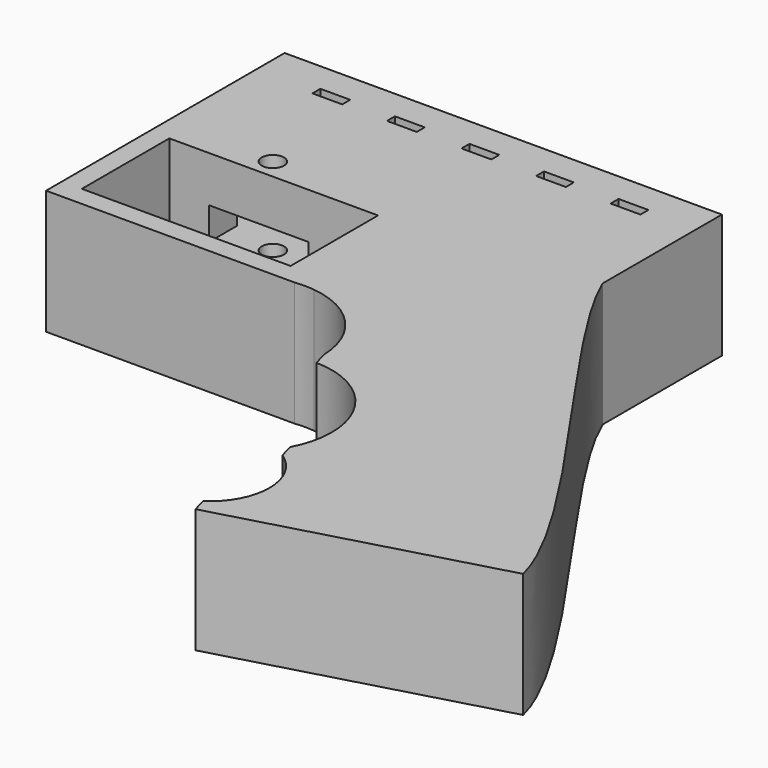
from build123d import *

# Parameters (mm, degrees)
F0_W     = 42
F0_H     = 22
F0_R     = 2.25
F0_W_2   = 6
F0_H_2   = 2
F1_DEPTH = 25
F2_W     = 12
F2_H     = 6.5
F2_W_2   = 20
F2_W_3   = 30
F2_H_2   = 19
F3_DEPTH = 22
F4_DEPTH = 55
F5_DEPTH = 34
F6_DEPTH = 27


with BuildPart() as f1:
    # F0 (on Top) → F1 (new body)
    with BuildSketch(Plane.XY):
        with BuildLine():
            Line((44, 30), (-44, 30))
            Line((-44, 30), (-44, -30))
            Line((-44, -30), (6, -30))
            ThreePointArc((6, -30), (7.965431, -29.886003), (9.930862, -30))
            Line((9.930862, -30), (44, -30))
            Line((44, -30), (44, 0))
            Line((44, 0), (44, 30))
        make_face()
        with Locations((-19, -15)):
            Rectangle(F0_W, F0_H, mode=Mode.SUBTRACT)
        with Locations((-22.372717, 0)):
            Circle(F0_R, mode=Mode.SUBTRACT)
        with Locations((-29, 23)):
            Rectangle(F0_W_2, F0_H_2, mode=Mode.SUBTRACT)
        with Locations((-14, 23)):
            Rectangle(F0_W_2, F0_H_2, mode=Mode.SUBTRACT)
        with Locations((1, 23)):
            Rectangle(F0_W_2, F0_H_2, mode=Mode.SUBTRACT)
        with Locations((16, 23)):
            Rectangle(F0_W_2, F0_H_2, mode=Mode.SUBTRACT)
        with Locations((31, 23)):
            Rectangle(F0_W_2, F0_H_2, mode=Mode.SUBTRACT)
        with BuildLine():
            add(Edge.make_bspline(
                [(44, 0), (51.823881, -18.846294), (91.528348, -66.164455), (96, -85)],
                knots=[0, 0, 0, 0, 99.644368, 99.644368, 99.644368, 99.644368], degree=3))
            Line((44, 0), (44, -30))
            Line((44, -30), (9.930862, -30))
            ThreePointArc((9.930862, -30), (20.465431, -35.364284), (24.955334, -46.300163))
            Line((24.955334, -46.300163), (25.757433, -49.190948))
            ThreePointArc((25.757433, -49.190948), (40.09637, -57.581132), (40.434485, -74.190948))
            Line((40.434485, -74.190948), (41.236584, -77.081733))
            ThreePointArc((41.236584, -77.081733), (46.603334, -87.081733), (41.236584, -97.081733))
            Line((41.236584, -97.081733), (42.038683, -99.972518))
            Line((42.038683, -99.972518), (96, -85))
        make_face()
    extrude(amount=F1_DEPTH)

    # F2 (on face) → F3 (cut)
    with BuildSketch(Plane(origin=(0, 30, 0), x_dir=(-1, 0, 0), z_dir=(0, 1, 0))):
        with Locations((38, 12.5)):
            Rectangle(F2_W, F2_H)
        with Locations((22, 12.5)):
            Rectangle(F2_W_2, F2_H)
        Polygon((32, 22), (-11, 22), (-11, 3), (32, 3), (32, 9.25), (12, 9.25), (12, 15.75), (32, 15.75), align=None)
        with Locations((-26, 12.5)):
            Rectangle(F2_W_3, F2_H_2)
    extrude(amount=-F3_DEPTH, mode=Mode.SUBTRACT)

    # F2 (on face) → F4 (cut)
    with BuildSketch(Plane(origin=(0, 30, 0), x_dir=(-1, 0, 0), z_dir=(0, 1, 0))):
        with Locations((-26, 12.5)):
            Rectangle(F2_W_3, F2_H_2)
    extrude(amount=-F4_DEPTH, mode=Mode.SUBTRACT)

    # F2 (on face) → F5 (cut, through all)
    with BuildSketch(Plane(origin=(0, 30, 0), x_dir=(-1, 0, 0), z_dir=(0, 1, 0))):
        with Locations((22, 12.5)):
            Rectangle(F2_W_2, F2_H)
    extrude(amount=-F5_DEPTH, mode=Mode.SUBTRACT)

    # F2 (on face) → F6 (cut)
    with BuildSketch(Plane(origin=(0, 30, 0), x_dir=(-1, 0, 0), z_dir=(0, 1, 0))):
        with Locations((38, 12.5)):
            Rectangle(F2_W, F2_H)
    extrude(amount=-F6_DEPTH, mode=Mode.SUBTRACT)


solid = f1.part
